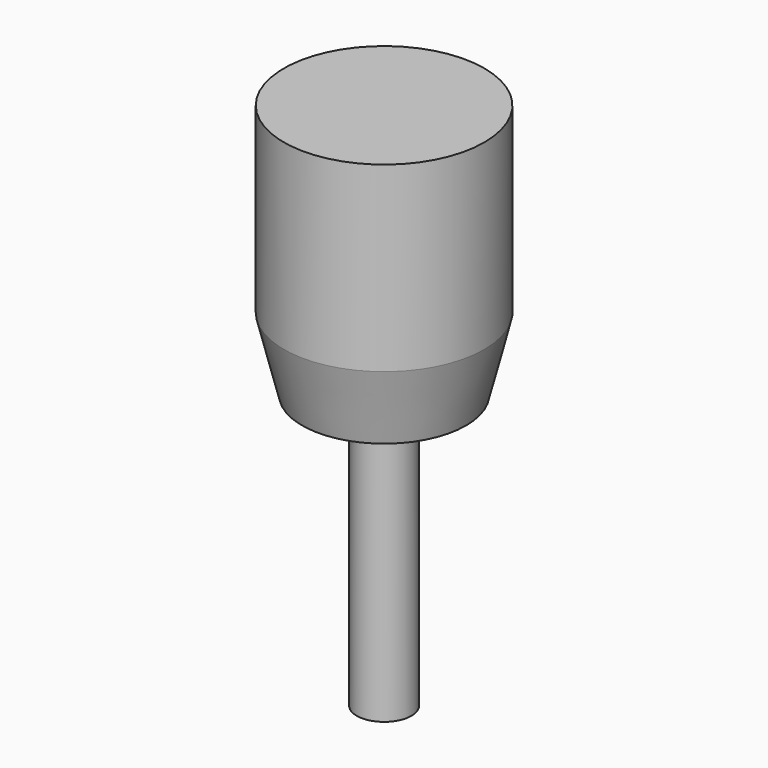
from build123d import *

# Parameters (mm, degrees)
F0_R     = 5.5
F0_R_2   = 3.5
F0_R_3   = 1.5
F1_DEPTH = 2
F2_DEPTH = 27
F3_DEPTH = 12
F4_SIZE2 = 1
F4_SIZE  = 4


with BuildPart() as f1:
    # F0 (on Top) → F1 (new body)
    with BuildSketch(Plane.XY):
        Circle(F0_R)
        Circle(F0_R_2, mode=Mode.SUBTRACT)
        Circle(F0_R_2)
        Circle(F0_R_3, mode=Mode.SUBTRACT)
        Circle(F0_R_3)
    extrude(amount=F1_DEPTH)

    # F0 (on Top) → F2 (join)
    with BuildSketch(Plane.XY):
        Circle(F0_R_3)
    extrude(amount=-F2_DEPTH)

    # F0 (on Top) → F3 (join)
    with BuildSketch(Plane.XY):
        Circle(F0_R)
        Circle(F0_R_2, mode=Mode.SUBTRACT)
    extrude(amount=-F3_DEPTH)

    # F4
    f4_edges = [f1.edges().sort_by_distance(p)[0] for p in [
        (-5.5, 0, -12),
    ]]
    f4_side = f1.faces().sort_by_distance((-5.5, 0, -6))[0]
    chamfer(f4_edges, length=F4_SIZE, length2=F4_SIZE2, reference=f4_side)


solid = f1.part
